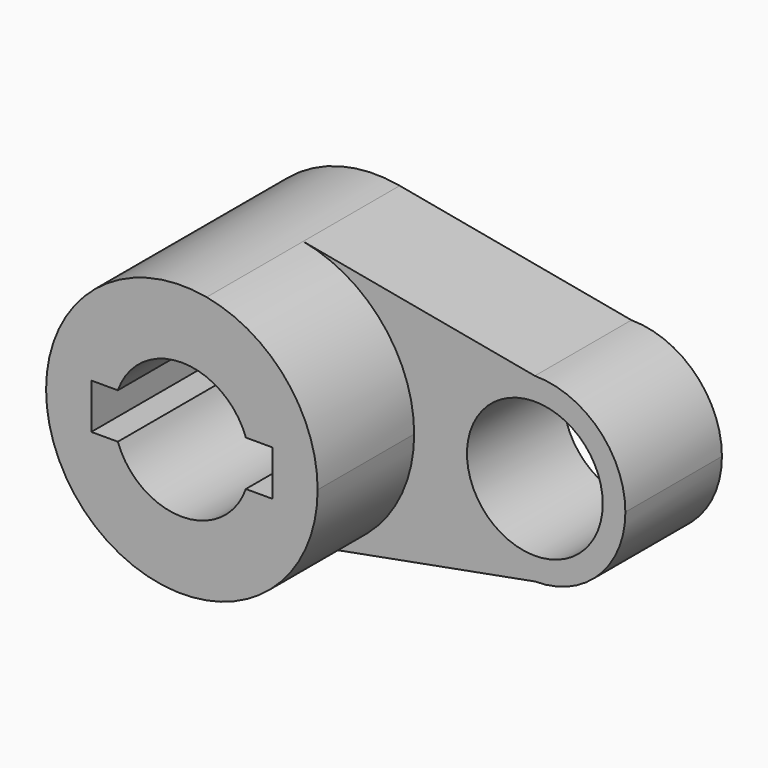
from build123d import *

# Parameters (mm, degrees)
F0_R     = 14.2875
F1_DEPTH = 25.4
F2_DEPTH = 50.8


with BuildPart() as f1:
    # F0 (on Front) → F1 (new body)
    with BuildSketch(Plane.XZ):
        with BuildLine():
            ThreePointArc((5.211817, 28.095686), (21.971098, 18.270235), (28.575, 0))
            ThreePointArc((28.575, 0), (21.971098, -18.270235), (5.211817, -28.095686))
            Line((5.211817, -28.095686), (53.975, -19.05))
            ThreePointArc((53.975, -19.05), (34.925, 0), (53.975, 19.05))
            Line((53.975, 19.05), (5.211817, 28.095686))
        make_face()
        with BuildLine():
            ThreePointArc((5.211817, -28.095686), (21.971098, -18.270235), (28.575, 0))
            ThreePointArc((28.575, 0), (21.971098, 18.270235), (5.211817, 28.095686))
            ThreePointArc((5.211817, 28.095686), (-28.575, 0), (5.211817, -28.095686))
        make_face()
        with BuildLine():
            ThreePointArc((-13.470384, 4.7625), (0, 14.2875), (13.470384, 4.7625))
            Line((13.470384, 4.7625), (19.05, 4.7625))
            Line((19.05, 4.7625), (19.05, -4.7625))
            Line((19.05, -4.7625), (13.470384, -4.7625))
            ThreePointArc((13.470384, -4.7625), (0, -14.2875), (-13.470384, -4.7625))
            Line((-13.470384, -4.7625), (-19.05, -4.7625))
            Line((-19.05, -4.7625), (-19.05, 4.7625))
            Line((-19.05, 4.7625), (-13.470384, 4.7625))
        make_face(mode=Mode.SUBTRACT)
        with BuildLine():
            ThreePointArc((73.025, 0), (67.445384, 13.470384), (53.975, 19.05))
            ThreePointArc((53.975, 19.05), (34.925, 0), (53.975, -19.05))
            ThreePointArc((53.975, -19.05), (67.445384, -13.470384), (73.025, 0))
        make_face()
        with Locations((53.975, 0)):
            Circle(F0_R, mode=Mode.SUBTRACT)
    extrude(amount=F1_DEPTH)

    # F0 (on Front) → F2 (join)
    with BuildSketch(Plane.XZ):
        with BuildLine():
            ThreePointArc((5.211817, -28.095686), (21.971098, -18.270235), (28.575, 0))
            ThreePointArc((28.575, 0), (21.971098, 18.270235), (5.211817, 28.095686))
            ThreePointArc((5.211817, 28.095686), (-28.575, 0), (5.211817, -28.095686))
        make_face()
        with BuildLine():
            ThreePointArc((-13.470384, 4.7625), (0, 14.2875), (13.470384, 4.7625))
            Line((13.470384, 4.7625), (19.05, 4.7625))
            Line((19.05, 4.7625), (19.05, -4.7625))
            Line((19.05, -4.7625), (13.470384, -4.7625))
            ThreePointArc((13.470384, -4.7625), (0, -14.2875), (-13.470384, -4.7625))
            Line((-13.470384, -4.7625), (-19.05, -4.7625))
            Line((-19.05, -4.7625), (-19.05, 4.7625))
            Line((-19.05, 4.7625), (-13.470384, 4.7625))
        make_face(mode=Mode.SUBTRACT)
    extrude(amount=F2_DEPTH)


solid = f1.part
